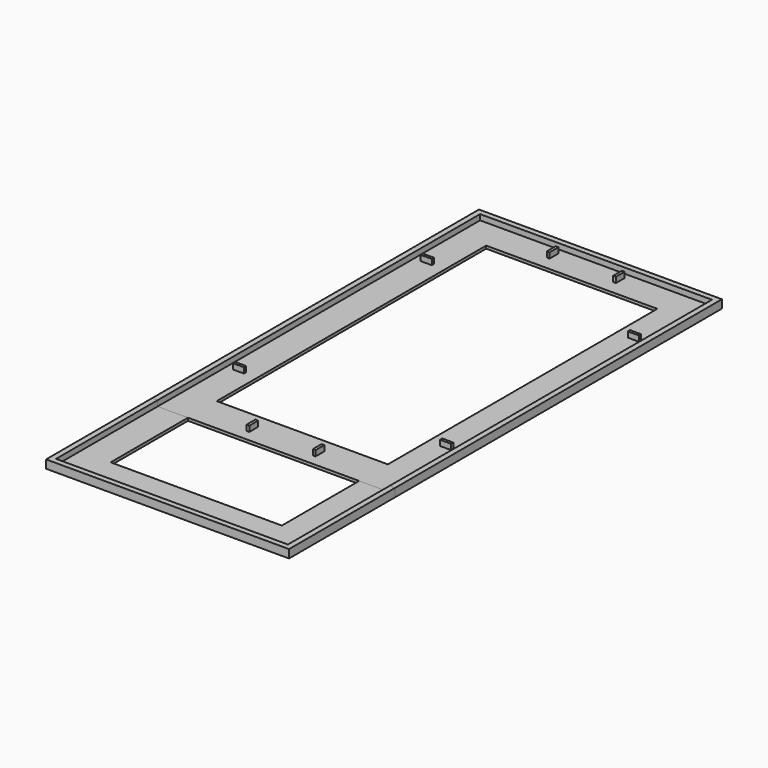
from build123d import *

# Parameters (mm, degrees)
BOX003_W     = 4
BOX003_H     = 1
BOX003_DEPTH = 3
BOX004_W     = 4
BOX004_H     = 1
BOX004_DEPTH = 3
BOX005_W     = 4
BOX005_H     = 1
BOX005_DEPTH = 3
BOX006_W     = 4
BOX006_H     = 1
BOX006_DEPTH = 3
BOX007_W     = 1
BOX007_H     = 4
BOX007_DEPTH = 3
BOX008_W     = 1
BOX008_H     = 4
BOX008_DEPTH = 3
BOX009_W     = 1
BOX009_H     = 4
BOX009_DEPTH = 3
BOX010_W     = 1
BOX010_H     = 4
BOX010_DEPTH = 3
BOX012_W     = 84
BOX012_H     = 48
BOX012_DEPTH = 2
BOX002_W     = 84
BOX002_H     = 144
BOX002_DEPTH = 2
BOX001_W     = 62
BOX001_H     = 122
BOX001_DEPTH = 3
BOX_W        = 88
BOX_H        = 148
BOX_DEPTH    = 3
BOX013_W     = 62
BOX013_H     = 35
BOX013_DEPTH = 3
BOX011_W     = 88
BOX011_H     = 48
BOX011_DEPTH = 3


with BuildPart() as cube003:
    # Box003 → Box003 (new body)
    with BuildSketch(Plane(origin=(4.5, 31, 0), x_dir=(1, 0, 0), z_dir=(0, 0, 1))):
        with Locations((2, 0.5)):
            Rectangle(BOX003_W, BOX003_H)
    extrude(amount=BOX003_DEPTH)


with BuildPart() as cube004:
    # Box004 → Box004 (new body)
    with BuildSketch(Plane(origin=(79.5, 31, 0), x_dir=(1, 0, 0), z_dir=(0, 0, 1))):
        with Locations((2, 0.5)):
            Rectangle(BOX004_W, BOX004_H)
    extrude(amount=BOX004_DEPTH)


with BuildPart() as cube005:
    # Box005 → Box005 (new body)
    with BuildSketch(Plane(origin=(4.5, 116, 0), x_dir=(1, 0, 0), z_dir=(0, 0, 1))):
        with Locations((2, 0.5)):
            Rectangle(BOX005_W, BOX005_H)
    extrude(amount=BOX005_DEPTH)


with BuildPart() as cube006:
    # Box006 → Box006 (new body)
    with BuildSketch(Plane(origin=(79.5, 116, 0), x_dir=(1, 0, 0), z_dir=(0, 0, 1))):
        with Locations((2, 0.5)):
            Rectangle(BOX006_W, BOX006_H)
    extrude(amount=BOX006_DEPTH)


with BuildPart() as cube007:
    # Box007 → Box007 (new body)
    with BuildSketch(Plane(origin=(31, 4, 0), x_dir=(1, 0, 0), z_dir=(0, 0, 1))):
        with Locations((0.5, 2)):
            Rectangle(BOX007_W, BOX007_H)
    extrude(amount=BOX007_DEPTH)


with BuildPart() as cube008:
    # Box008 → Box008 (new body)
    with BuildSketch(Plane(origin=(55, 4, 0), x_dir=(1, 0, 0), z_dir=(0, 0, 1))):
        with Locations((0.5, 2)):
            Rectangle(BOX008_W, BOX008_H)
    extrude(amount=BOX008_DEPTH)


with BuildPart() as cube009:
    # Box009 → Box009 (new body)
    with BuildSketch(Plane(origin=(31, 140, 0), x_dir=(1, 0, 0), z_dir=(0, 0, 1))):
        with Locations((0.5, 2)):
            Rectangle(BOX009_W, BOX009_H)
    extrude(amount=BOX009_DEPTH)


with BuildPart() as cube010:
    # Box010 → Box010 (new body)
    with BuildSketch(Plane(origin=(55, 140, 0), x_dir=(1, 0, 0), z_dir=(0, 0, 1))):
        with Locations((0.5, 2)):
            Rectangle(BOX010_W, BOX010_H)
    extrude(amount=BOX010_DEPTH)


with BuildPart() as cube012:
    # Box012 → Box012 (new body)
    with BuildSketch(Plane(origin=(2, -46, 1), x_dir=(1, 0, 0), z_dir=(0, 0, 1))):
        with Locations((42, 24)):
            Rectangle(BOX012_W, BOX012_H)
    extrude(amount=BOX012_DEPTH)


with BuildPart() as cube002:
    # Box002 → Box002 (new body)
    with BuildSketch(Plane(origin=(2, 2, 1), x_dir=(1, 0, 0), z_dir=(0, 0, 1))):
        with Locations((42, 72)):
            Rectangle(BOX002_W, BOX002_H)
    extrude(amount=BOX002_DEPTH)


with BuildPart() as cube001:
    # Box001 → Box001 (new body)
    with BuildSketch(Plane(origin=(13, 13, 0), x_dir=(1, 0, 0), z_dir=(0, 0, 1))):
        with Locations((31, 61)):
            Rectangle(BOX001_W, BOX001_H)
    extrude(amount=BOX001_DEPTH)


with BuildPart() as cut003:
    # Box → Box (new body)
    with BuildSketch(Plane.XY):
        with Locations((44, 74)):
            Rectangle(BOX_W, BOX_H)
    extrude(amount=BOX_DEPTH)

    # Cut: cut Cube001
    add(cube001.part, mode=Mode.SUBTRACT)

    # Cut001: cut Cube002
    add(cube002.part, mode=Mode.SUBTRACT)

    # Cut003: cut Cube012
    add(cube012.part, mode=Mode.SUBTRACT)


with BuildPart() as cube013:
    # Box013 → Box013 (new body)
    with BuildSketch(Plane(origin=(13, -35, 0), x_dir=(1, 0, 0), z_dir=(0, 0, 1))):
        with Locations((31, 17.5)):
            Rectangle(BOX013_W, BOX013_H)
    extrude(amount=BOX013_DEPTH)


with BuildPart() as cut004:
    # Box011 → Box011 (new body)
    with BuildSketch(Plane(origin=(0, -48, 0), x_dir=(1, 0, 0), z_dir=(0, 0, 1))):
        with Locations((44, 24)):
            Rectangle(BOX011_W, BOX011_H)
    extrude(amount=BOX011_DEPTH)

    # Cut002: cut Cube012
    add(cube012.part, mode=Mode.SUBTRACT)

    # Cut004: cut Cube013
    add(cube013.part, mode=Mode.SUBTRACT)


solid = Compound([cube003.part, cube004.part, cube005.part, cube006.part, cube007.part, cube008.part, cube009.part, cube010.part, cut003.part, cut004.part])
